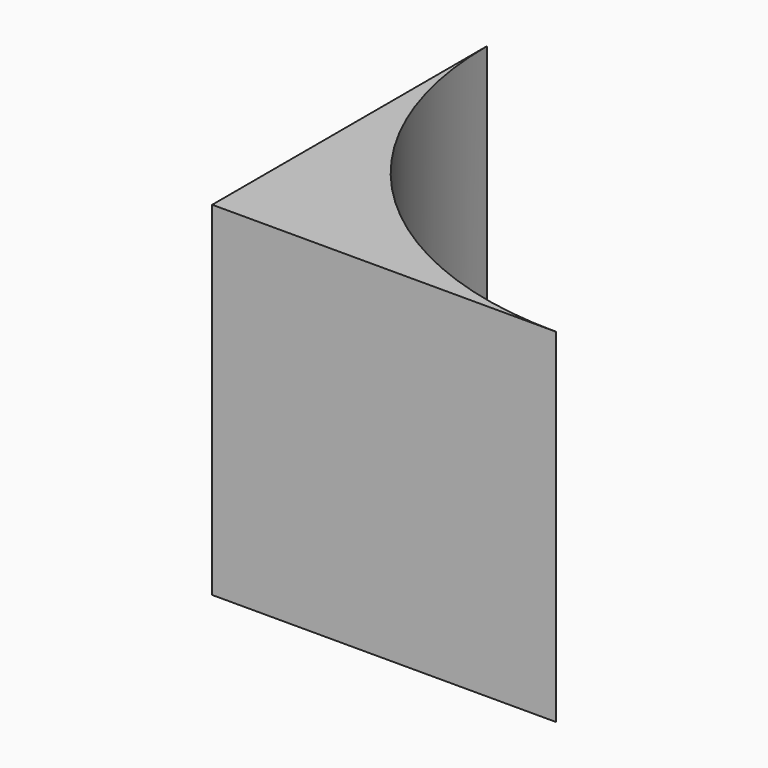
from build123d import *

# Parameters (mm, degrees)
PAD_DEPTH = 20


with BuildPart() as part:
    # Sketch → Pad (new body)
    with BuildSketch(Plane.XY):
        with BuildLine():
            Line((0, 0), (20, 0))
            ThreePointArc((0, 20), (5.857864, 5.857864), (20, 0))
            Line((0, 0), (0, 20))
        make_face()
    extrude(amount=PAD_DEPTH)


solid = part.part
